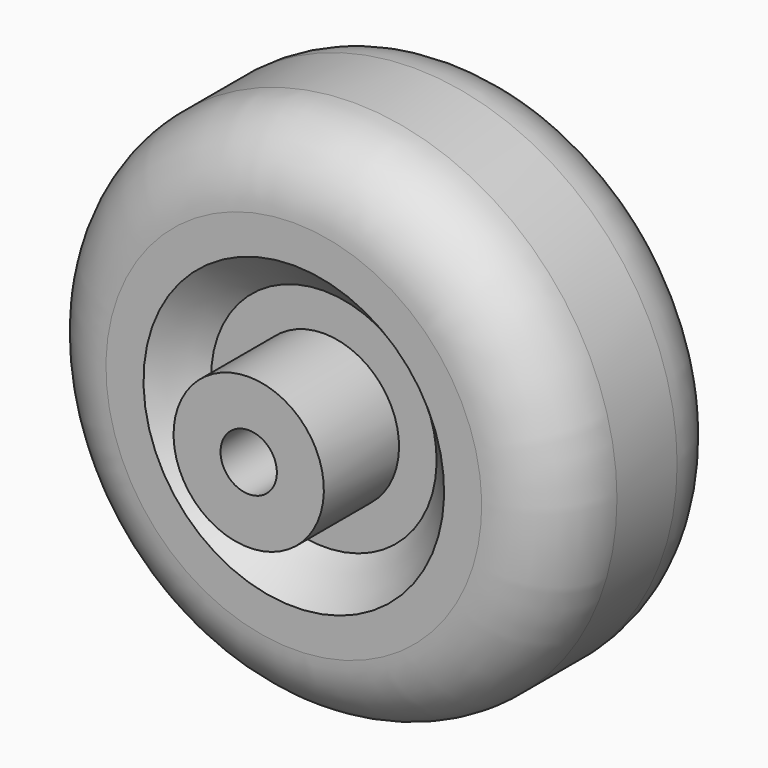
from build123d import *

# Parameters (mm, degrees)
F3_D = 19.05
F4_R = 25.4


with BuildPart() as f1:
    # F0 (on Right) → F1 (revolve)
    with BuildSketch(Plane.YZ):
        Polygon((0, 25.4), (0, 0), (114.3, 0), (114.3, 25.4), (82.55, 25.4), (82.55, 38.1), (95.25, 50.8), (95.25, 88.9), (19.05, 88.9), (19.05, 50.8), (31.75, 38.1), (31.75, 25.4), align=None)
    revolve(axis=Axis((0, 77.023387, 0), (0, 1, 0)))

    # F3 (through all)
    with Locations(Plane(origin=(0, 114.3, 0), x_dir=(-1, 0, 0), z_dir=(0, 1, 0))):
        with Locations((0, 0)):
            Hole(F3_D / 2)

    # F4
    f4_edges = [f1.edges().sort_by_distance(p)[0] for p in [
        (0, 95.25, -88.9),
        (0, 19.05, -88.9),
    ]]
    fillet(f4_edges, radius=F4_R)


solid = f1.part
